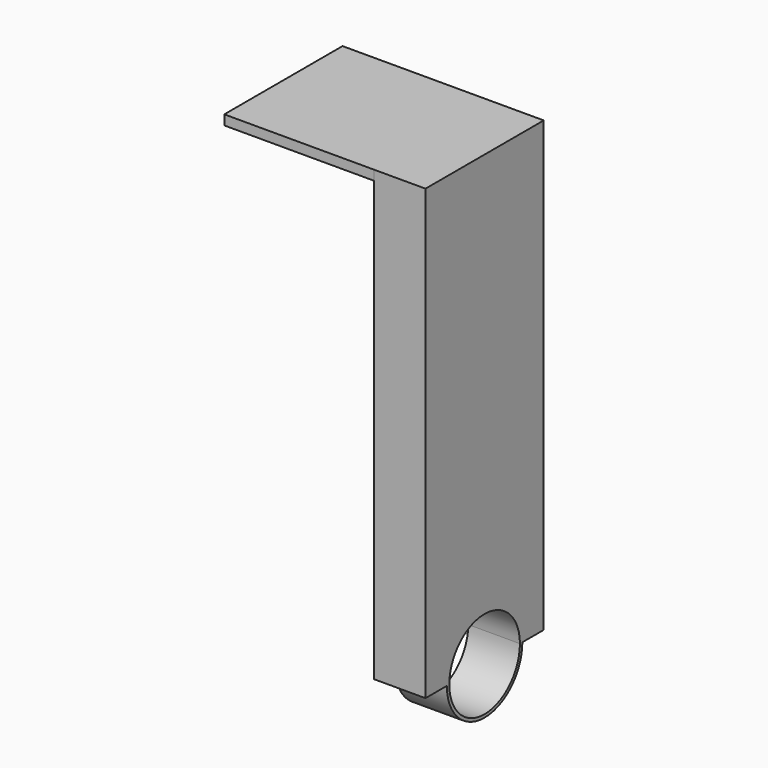
from build123d import *

# Parameters (mm, degrees)
F1_DEPTH = 17.5514
F2_W     = 50.218091
F2_H     = 3.322014
F3_DEPTH = 50.8


with BuildPart() as f1:
    # F0 (on Right) → F1 (new body)
    with BuildSketch(Plane.YZ):
        with BuildLine():
            ThreePointArc((-62.479986, 38.418766), (-46.447612, 54.45114), (-30.415238, 38.418766))
            Line((-30.415238, 38.418766), (-21.338567, 38.418766))
            Line((-21.338567, 38.418766), (-21.338567, 190.818766))
            Line((-21.338567, 190.818766), (-71.556658, 190.818766))
            Line((-71.556658, 190.818766), (-71.556658, 38.418766))
            Line((-71.556658, 38.418766), (-62.479986, 38.418766))
        make_face()
        with BuildLine():
            Line((-30.415238, 38.418766), (-31.4489, 38.418766))
            ThreePointArc((-31.4489, 38.418766), (-46.447612, 23.420053), (-61.446325, 38.418766))
            Line((-61.446325, 38.418766), (-62.479986, 38.418766))
            ThreePointArc((-62.479986, 38.418766), (-46.447612, 22.386392), (-30.415238, 38.418766))
        make_face()
        with BuildLine():
            ThreePointArc((-61.446325, 38.418766), (-46.447612, 53.417479), (-31.4489, 38.418766))
            Line((-31.4489, 38.418766), (-30.415238, 38.418766))
            ThreePointArc((-30.415238, 38.418766), (-46.447612, 54.45114), (-62.479986, 38.418766))
            Line((-62.479986, 38.418766), (-61.446325, 38.418766))
        make_face()
    extrude(amount=F1_DEPTH)

    # F2 (on face) → F3 (join)
    with BuildSketch(Plane(origin=(0, 0, 0), x_dir=(0, -1, 0), z_dir=(-1, 0, 0))):
        with Locations((46.447612, 189.157759)):
            Rectangle(F2_W, F2_H)
    extrude(amount=F3_DEPTH)


solid = f1.part
